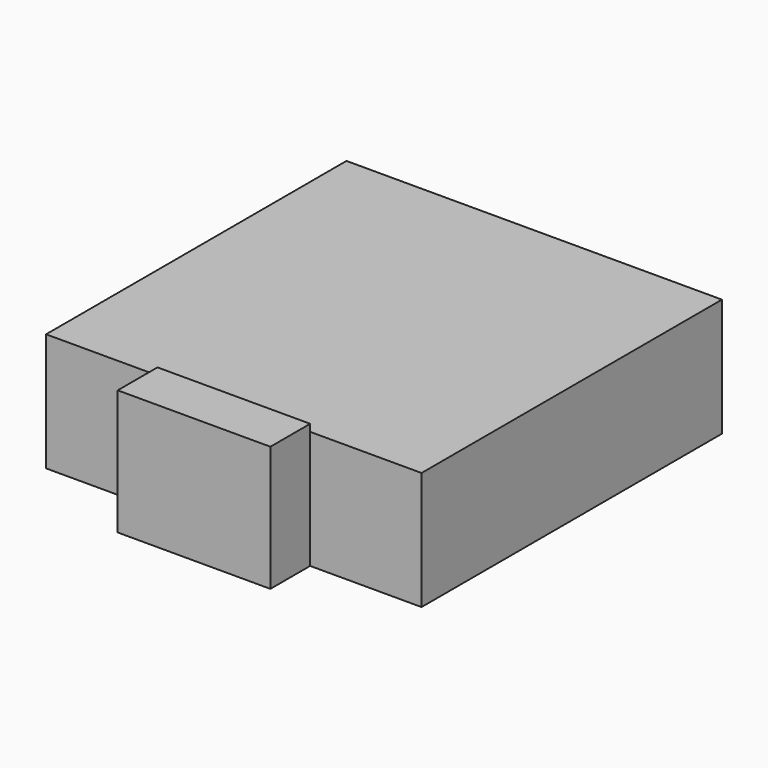
from build123d import *

# Parameters (mm, degrees)
BOX_W        = 42.3
BOX_H        = 42.3
BOX_DEPTH    = 13.3
BOX001_W     = 17.2
BOX001_H     = 5.6
BOX001_DEPTH = 14.1


with BuildPart() as cube:
    # Box → Box (new body)
    with BuildSketch(Plane.XY):
        with Locations((21.15, 21.15)):
            Rectangle(BOX_W, BOX_H)
    extrude(amount=BOX_DEPTH)


with BuildPart() as cube001:
    # Box001 → Box001 (new body)
    with BuildSketch(Plane(origin=(12.55, -5.6, 0), x_dir=(1, 0, 0), z_dir=(0, 0, 1))):
        with Locations((8.6, 2.8)):
            Rectangle(BOX001_W, BOX001_H)
    extrude(amount=BOX001_DEPTH)


solid = Compound([cube.part, cube001.part])
